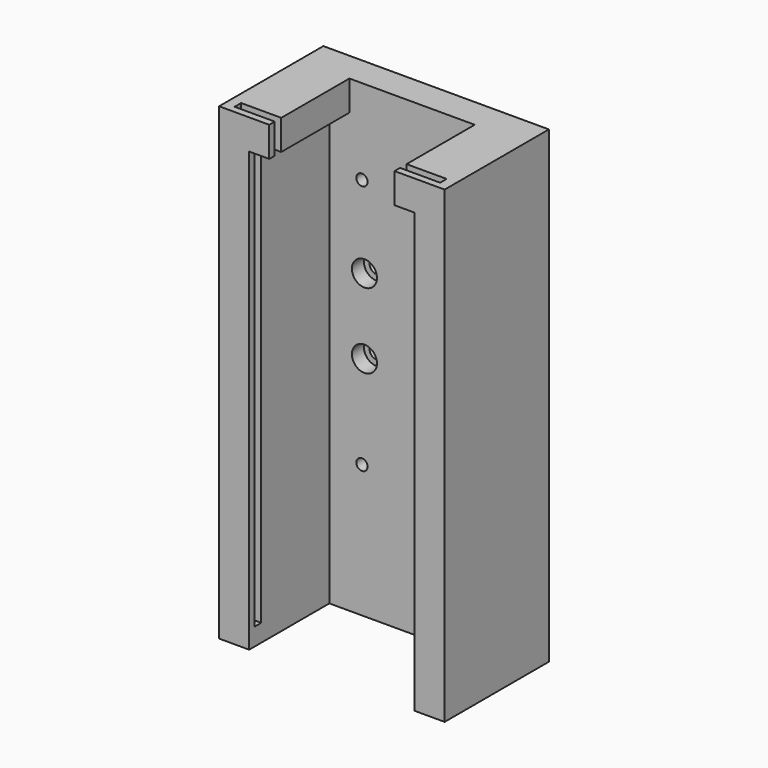
from build123d import *

# Parameters (mm, degrees)
F0_W      = 90
F0_H      = 187
F1_DEPTH  = 52
F2_T      = -12
F3_W      = 50
F3_H      = 40
F4_DEPTH  = 25
F5_R      = 2.25
F5_R_2    = 2.75
F6_DEPTH  = 52.001
F7_R      = 5
F8_DEPTH  = 6
F9_R      = 4.25
F10_DEPTH = 4.5
F11_R     = 2.5
F12_DEPTH = 100
F13_W     = 82
F13_H     = 3.25
F14_DEPTH = 180


with BuildPart() as f1:
    # F0 (on Front) → F1 (new body)
    with BuildSketch(Plane.XZ):
        with Locations((45, 93.5)):
            Rectangle(F0_W, F0_H)
    extrude(amount=F1_DEPTH)

    # F2
    f2_openings = [f1.faces().sort_by_distance(p)[0] for p in [
        (45, -52, 93.5),
        (45, -26, 0),
    ]]
    offset(amount=F2_T, openings=f2_openings)

    # F3 (on face) → F4 (cut)
    with BuildSketch(Plane.XY.offset(187)):
        with Locations((45, -32)):
            Rectangle(F3_W, F3_H)
    extrude(amount=-F4_DEPTH, mode=Mode.SUBTRACT)

    # F5 (on face) → F6 (cut, through all)
    with BuildSketch(Plane(origin=(0, 0, 0), x_dir=(-1, 0, 0), z_dir=(0, 1, 0))):
        with Locations((-65, 53)):
            Circle(F5_R)
        with Locations((-25, 53)):
            Circle(F5_R)
        with Locations((-65, 153)):
            Circle(F5_R)
        with Locations((-25, 153)):
            Circle(F5_R)
        with Locations((-26, 120.5)):
            Circle(F5_R_2)
        with Locations((-64, 120.5)):
            Circle(F5_R_2)
        with Locations((-26, 90.5)):
            Circle(F5_R_2)
        with Locations((-64, 90.5)):
            Circle(F5_R_2)
    extrude(amount=-F6_DEPTH, mode=Mode.SUBTRACT)

    # F7 (on face) → F8 (cut)
    with BuildSketch(Plane.XZ.offset(12)):
        with Locations((26, 120.5)):
            Circle(F7_R)
        with Locations((64, 120.5)):
            Circle(F7_R)
        with Locations((26, 90.5)):
            Circle(F7_R)
        with Locations((64, 90.5)):
            Circle(F7_R)
    extrude(amount=-F8_DEPTH, mode=Mode.SUBTRACT)

    # F9 (on face) → F10 (cut)
    with BuildSketch(Plane(origin=(0, 0, 0), x_dir=(-1, 0, 0), z_dir=(0, 1, 0))):
        with Locations((-65, 153)):
            Circle(F9_R)
        with Locations((-25, 153)):
            Circle(F9_R)
        with Locations((-65, 53)):
            Circle(F9_R)
        with Locations((-25, 53)):
            Circle(F9_R)
    extrude(amount=-F10_DEPTH, mode=Mode.SUBTRACT)

    # F11 (on face) → F12 (cut)
    with BuildSketch(Plane(origin=(0, 0, 0), x_dir=(1, 0, 0), z_dir=(0, 0, -1))):
        with Locations((6, 25)):
            Circle(F11_R)
        with Locations((84, 25)):
            Circle(F11_R)
    extrude(amount=-F12_DEPTH, mode=Mode.SUBTRACT)

    # F13 (on face) → F14 (cut)
    with BuildSketch(Plane.XY.offset(187)):
        with Locations((45, -47.625)):
            Rectangle(F13_W, F13_H)
    extrude(amount=-F14_DEPTH, mode=Mode.SUBTRACT)


solid = f1.part
